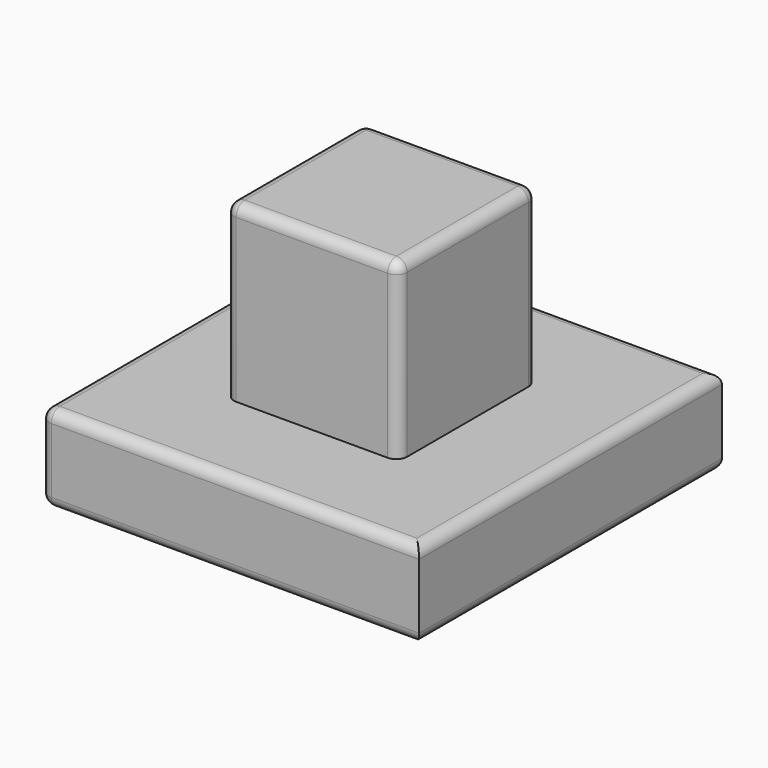
from build123d import *

# Parameters (mm, degrees)
F0_W     = 174.909296
F0_H     = 174.909296
F1_DEPTH = 40
F2_DEPTH = 120
F3_R     = 5


with BuildPart() as f1:
    # F0 (on Top) → F1 (new body)
    with BuildSketch(Plane.XY):
        Rectangle(F0_W, F0_H)
        Polygon((40, -40), (0, -40), (-40, -40), (-40, 40), (40, 40), align=None, mode=Mode.SUBTRACT)
    extrude(amount=F1_DEPTH)

    # F0 (on Top) → F2 (join)
    with BuildSketch(Plane.XY):
        Polygon((-40, -40), (0, -40), (40, -40), (40, 40), (-40, 40), align=None)
    extrude(amount=F2_DEPTH)

    # F3
    f3_edges = [f1.edges().sort_by_distance(p)[0] for p in [
        (0, -40, 120),
        (40, 0, 120),
        (-40, 0, 120),
        (0, 40, 120),
        (40, 40, 80),
        (40, -40, 80),
        (-40, -40, 80),
        (-40, 40, 80),
        (-87.454648, 0, 40),
        (0, -87.454648, 40),
        (0, -87.454648, 0),
        (-87.454648, 0, 0),
        (-87.454648, -87.454648, 20),
        (87.454648, 0, 40),
        (87.454648, 0, 0),
        (0, 87.454648, 0),
        (0, 87.454648, 40),
    ]]
    fillet(f3_edges, radius=F3_R)


solid = f1.part
